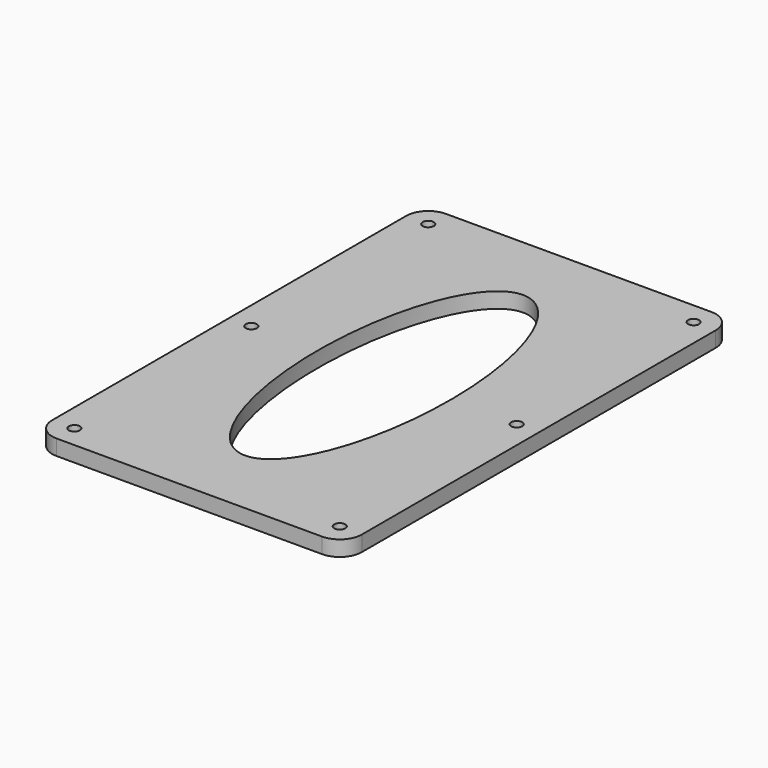
from build123d import *

# Parameters (mm, degrees)
F0_R     = 1.25
F1_DEPTH = 3.5


with BuildPart() as f1:
    # F0 (on Top) → F1 (new body)
    with BuildSketch(Plane.XY):
        with BuildLine():
            ThreePointArc((2.9433448431, 88.8666001019), (1.4788787491, 92.4021340078), (-2.0566551569, 93.8666001019))
            Line((-2.0566551569, 93.8666001019), (-5.0066551569, 93.8666001019))
            Line((-5.0066551569, 93.8666001019), (-5.0066551569, 81.6666001019))
            Line((-5.0066551569, 81.6666001019), (-5.0066551569, 0.7979066769))
            ThreePointArc((-5.0066551569, 0.7979066769), (-4.1629808928, -0.3137986112), (-3.8633385987, -1.6768427803))
            ThreePointArc((-3.8633385987, -1.6768427803), (-5.8965647397, -4.6904720501), (-9.452237907, -3.9333998981))
            Line((-9.452237907, -3.9333998981), (-54.6582675917, -3.9333998981))
            ThreePointArc((-54.6582675917, -3.9333998981), (-59.2649098879, -3.7999920333), (-59.1066551569, 0.8058636248))
            Line((-59.1066551569, 0.8058636248), (-59.1066551569, 81.6666001019))
            Line((-59.1066551569, 81.6666001019), (-59.1066551569, 93.8666001019))
            Line((-59.1066551569, 93.8666001019), (-62.0566551569, 93.8666001019))
            ThreePointArc((-62.0566551569, 93.8666001019), (-65.5921890628, 92.4021340078), (-67.0566551569, 88.8666001019))
            Line((-67.0566551569, 88.8666001019), (-67.0566551569, -11.1333998981))
            ThreePointArc((-67.0566551569, -11.1333998981), (-65.5921890628, -14.668933804), (-62.0566551569, -16.1333998981))
            Line((-62.0566551569, -16.1333998981), (-2.0566551569, -16.1333998981))
            ThreePointArc((-2.0566551569, -16.1333998981), (1.4788787491, -14.668933804), (2.9433448431, -11.1333998981))
            Line((2.9433448431, -11.1333998981), (2.9433448431, 88.8666001019))
        make_face()
        with Locations((-62.0566551569, -11.1333998981)):
            Circle(F0_R, mode=Mode.SUBTRACT)
        with Locations((-2.0566551569, -11.1333998981)):
            Circle(F0_R, mode=Mode.SUBTRACT)
        with Locations((-62.0566551569, 38.8666001019)):
            Circle(F0_R, mode=Mode.SUBTRACT)
        with Locations((-62.0566551569, 88.8666001019)):
            Circle(F0_R, mode=Mode.SUBTRACT)
        with Locations((-2.0566551569, 38.8666001019)):
            Circle(F0_R, mode=Mode.SUBTRACT)
        with Locations((-2.0566551569, 88.8666001019)):
            Circle(F0_R, mode=Mode.SUBTRACT)
        with BuildLine():
            Line((-5.0066551569, 81.6666001019), (-5.0066551569, 93.8666001019))
            Line((-5.0066551569, 93.8666001019), (-59.1066551569, 93.8666001019))
            Line((-59.1066551569, 93.8666001019), (-59.1066551569, 81.6666001019))
            Line((-59.1066551569, 81.6666001019), (-59.1066551569, 0.8058636248))
            ThreePointArc((-59.1066551569, 0.8058636248), (-58.157920057, 1.4189207855), (-57.0566551569, 1.6702233759))
            Line((-57.0566551569, 1.6702233759), (-57.0566551569, 80.6666001019))
            Line((-57.0566551569, 80.6666001019), (-7.0566551569, 80.6666001019))
            Line((-7.0566551569, 80.6666001019), (-7.0566551569, 1.5726628725))
            ThreePointArc((-7.0566551569, 1.5726628725), (-5.964382177, 1.3632886545), (-5.0066551569, 0.7979066769))
            Line((-5.0066551569, 0.7979066769), (-5.0066551569, 81.6666001019))
        make_face()
        with BuildLine():
            ThreePointArc((-10.1105980486, -2.9333998981), (-9.8036726371, 0.1465065451), (-7.0566551569, 1.5726628725))
            Line((-7.0566551569, 1.5726628725), (-7.0566551569, 80.6666001019))
            Line((-7.0566551569, 80.6666001019), (-57.0566551569, 80.6666001019))
            Line((-57.0566551569, 80.6666001019), (-57.0566551569, 1.6702233759))
            ThreePointArc((-57.0566551569, 1.6702233759), (-54.6549409256, 0.7787072332), (-53.6452436516, -1.5757658918))
            ThreePointArc((-53.6452436516, -1.5757658918), (-53.7203998576, -2.2706521298), (-53.9423925031, -2.9333998981))
            Line((-53.9423925031, -2.9333998981), (-10.1105980486, -2.9333998981))
        make_face()
        with BuildLine():
            add(Edge.make_bspline(
                [(-32.0566551569, 78.1631171703), (-58.1354688254, 78.1631171703), (-45.0960619911, 19.2183415677), (-32.0566551569, -39.7264340349), (-19.0172483226, 19.2183415677), (-5.9778414883, 78.1631171703), (-32.0566551569, 78.1631171703)],
                knots=[0, 0, 0, 2.0943951024, 2.0943951024, 4.1887902048, 4.1887902048, 6.2831853072, 6.2831853072, 6.2831853072], degree=2, weights=[1, 0.5, 1, 0.5, 1, 0.5, 1]))
        make_face(mode=Mode.SUBTRACT)
        with BuildLine():
            ThreePointArc((-57.0566551569, 1.6702233759), (-58.157920057, 1.4189207855), (-59.1066551569, 0.8058636248))
            Line((-59.1066551569, 0.8058636248), (-59.1066551569, -3.9333998981))
            Line((-59.1066551569, -3.9333998981), (-54.6582675917, -3.9333998981))
            ThreePointArc((-54.6582675917, -3.9333998981), (-54.2525978915, -3.4675701594), (-53.9423925031, -2.9333998981))
            Line((-53.9423925031, -2.9333998981), (-57.0566551569, -2.9333998981))
            Line((-57.0566551569, -2.9333998981), (-57.0566551569, 1.6702233759))
        make_face()
        with BuildLine():
            ThreePointArc((-53.6452436516, -1.5757658918), (-54.6549409256, 0.7787072332), (-57.0566551569, 1.6702233759))
            Line((-57.0566551569, 1.6702233759), (-57.0566551569, -2.9333998981))
            Line((-57.0566551569, -2.9333998981), (-53.9423925031, -2.9333998981))
            ThreePointArc((-53.9423925031, -2.9333998981), (-53.7203998576, -2.2706521298), (-53.6452436516, -1.5757658918))
        make_face()
        with BuildLine():
            Line((-59.1066551569, -3.9333998981), (-59.1066551569, 0.8058636248))
            ThreePointArc((-59.1066551569, 0.8058636248), (-59.2649098879, -3.7999920333), (-54.6582675917, -3.9333998981))
            Line((-54.6582675917, -3.9333998981), (-59.1066551569, -3.9333998981))
        make_face()
        with BuildLine():
            ThreePointArc((-53.9423925031, -2.9333998981), (-54.2525978915, -3.4675701594), (-54.6582675917, -3.9333998981))
            Line((-54.6582675917, -3.9333998981), (-9.452237907, -3.9333998981))
            ThreePointArc((-9.452237907, -3.9333998981), (-9.827863893, -3.4639780374), (-10.1105980486, -2.9333998981))
            Line((-10.1105980486, -2.9333998981), (-53.9423925031, -2.9333998981))
        make_face()
        with BuildLine():
            ThreePointArc((-3.8633385987, -1.6768427803), (-4.1629808928, -0.3137986112), (-5.0066551569, 0.7979066769))
            Line((-5.0066551569, 0.7979066769), (-5.0066551569, -3.9333998981))
            Line((-5.0066551569, -3.9333998981), (-9.452237907, -3.9333998981))
            ThreePointArc((-9.452237907, -3.9333998981), (-5.8965647397, -4.6904720501), (-3.8633385987, -1.6768427803))
        make_face()
        with BuildLine():
            Line((-5.0066551569, -3.9333998981), (-5.0066551569, 0.7979066769))
            ThreePointArc((-5.0066551569, 0.7979066769), (-5.964382177, 1.3632886545), (-7.0566551569, 1.5726628725))
            Line((-7.0566551569, 1.5726628725), (-7.0566551569, -2.9333998981))
            Line((-7.0566551569, -2.9333998981), (-10.1105980486, -2.9333998981))
            ThreePointArc((-10.1105980486, -2.9333998981), (-9.827863893, -3.4639780374), (-9.452237907, -3.9333998981))
            Line((-9.452237907, -3.9333998981), (-5.0066551569, -3.9333998981))
        make_face()
        with BuildLine():
            Line((-7.0566551569, -2.9333998981), (-7.0566551569, 1.5726628725))
            ThreePointArc((-7.0566551569, 1.5726628725), (-9.8036726371, 0.1465065451), (-10.1105980486, -2.9333998981))
            Line((-10.1105980486, -2.9333998981), (-7.0566551569, -2.9333998981))
        make_face()
    extrude(amount=F1_DEPTH)


solid = f1.part
